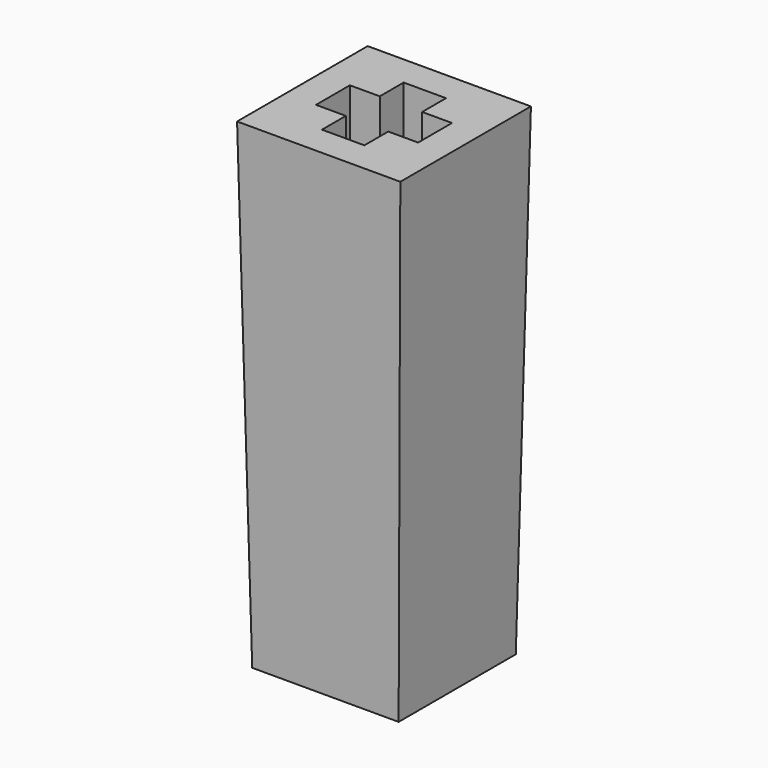
from build123d import *

# Parameters (mm, degrees)
F0_W     = 7.6
F0_H     = 7.6
F1_DEPTH = 25
F1_TAPER = -1
F2_W     = 1.55
F2_H     = 2.2
F2_W_2   = 2.2
F2_H_2   = 1.55
F3_DEPTH = 10


with BuildPart() as f1:
    # F0 (on Top) → F1 (new body)
    with BuildSketch(Plane.XY):
        Rectangle(F0_W, F0_H)
    extrude(amount=F1_DEPTH, taper=F1_TAPER)

    # F2 (on face) → F3 (cut)
    with BuildSketch(Plane.XY.offset(25)):
        with Locations((1.875, 0)):
            Rectangle(F2_W, F2_H)
        with Locations((0, -1.875)):
            Rectangle(F2_W_2, F2_H_2)
        Rectangle(F2_W_2, F2_H)
        with Locations((-1.875, 0)):
            Rectangle(F2_W, F2_H)
        with Locations((0, 1.875)):
            Rectangle(F2_W_2, F2_H_2)
    extrude(amount=-F3_DEPTH, mode=Mode.SUBTRACT)


solid = f1.part
